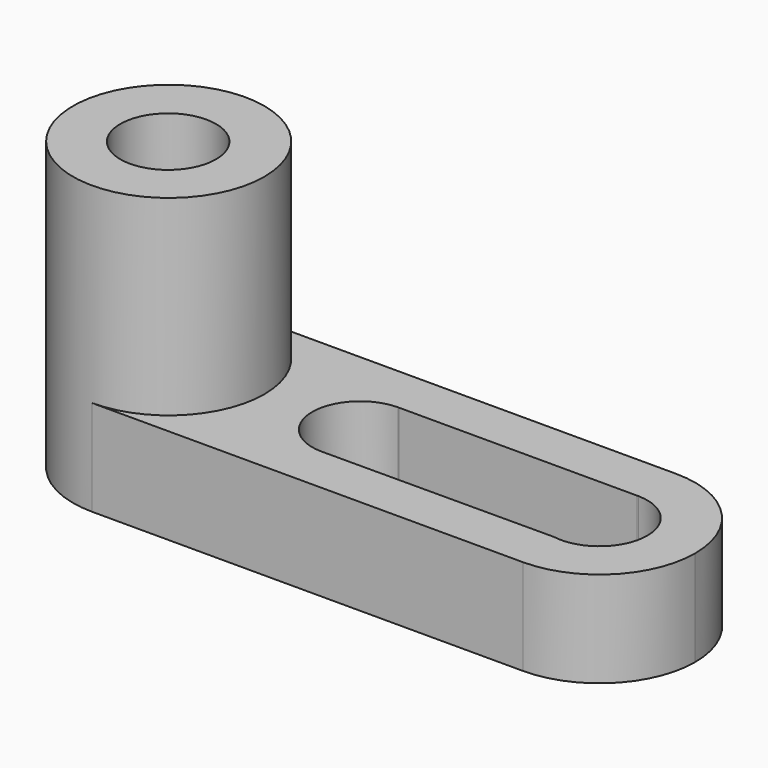
from build123d import *

# Parameters (mm, degrees)
F1_DEPTH  = 25.4
F3_W      = 25.4
F3_H      = 25.4
F4_DEPTH  = 25.401
F5_R      = 12.7
F6_DEPTH  = 38.1
F8_DEPTH  = 12.701
F10_DEPTH = 38.101
F11_R     = 6.35
F12_DEPTH = 38.101
F14_DEPTH = 38.101


with BuildPart() as f1:
    # F0 (on Front) → F1 (new body)
    with BuildSketch(Plane.XZ):
        Polygon((25.4, 38.1), (0, 38.1), (0, 0), (82.55, 0), (82.55, 12.7), (25.4, 12.7), align=None)
    extrude(amount=F1_DEPTH)

    # F3 (on Front) → F4 (cut, through all)
    with BuildSketch(Plane.XZ):
        with Locations((12.7, 25.4)):
            Rectangle(F3_W, F3_H)
    extrude(amount=F4_DEPTH, mode=Mode.SUBTRACT)

    # F5 (on Top) → F6 (join)
    with BuildSketch(Plane.XY):
        with Locations((12.7, -12.7)):
            Circle(F5_R)
    extrude(amount=F6_DEPTH)

    # F8 (cut, through all): faces of the model
    f8_faces = [f1.faces().sort_by_distance(p)[0] for p in [
        (2.8367728246, -2.8367728246, 12.7),
        (2.8367728246, -22.5632271754, 12.7),
    ]]
    extrude(f8_faces, amount=-F8_DEPTH, mode=Mode.SUBTRACT)

    # F9 (on Top) → F10 (cut, through all)
    with BuildSketch(Plane.XY):
        with BuildLine():
            ThreePointArc((70.9260618119, -18.9581619488), (74.7056921497, -16.792035404), (76.2, -12.7))
            ThreePointArc((76.2, -12.7), (74.3718130047, -8.2417820656), (69.9399347557, -6.3506369028))
            Line((69.9399347557, -6.3506369028), (69.7600652443, -6.3506369028))
            ThreePointArc((69.7600652443, -6.3506369028), (63.5180353707, -12.2217490892), (68.8073960441, -18.9638228735))
            Line((68.8073960441, -18.9638228735), (70.9260618119, -18.9581619488))
        make_face()
        with BuildLine():
            Line((69.7600652443, -6.3506369028), (69.9399347557, -6.3506369028))
            ThreePointArc((69.9399347557, -6.3506369028), (69.85, -6.35), (69.7600652443, -6.3506369028))
        make_face()
        with BuildLine():
            ThreePointArc((68.8073960441, -18.9638228735), (69.8669666894, -19.0499773331), (70.9260618119, -18.9581619488))
            Line((70.9260618119, -18.9581619488), (68.8073960441, -18.9638228735))
        make_face()
        with BuildLine():
            ThreePointArc((68.8073960441, -18.9638228735), (63.5180353707, -12.2217490892), (69.7600652443, -6.3506369028))
            Line((69.7600652443, -6.3506369028), (38.1899347557, -6.3506369028))
            ThreePointArc((38.1899347557, -6.3506369028), (42.6218130047, -8.2417820656), (44.45, -12.7))
            ThreePointArc((44.45, -12.7), (42.6764639727, -17.1020992158), (38.3465425178, -19.0452121152))
            Line((38.3465425178, -19.0452121152), (68.8073960441, -18.9638228735))
        make_face()
        with BuildLine():
            Line((38.0100652443, -6.3506369028), (38.1899347557, -6.3506369028))
            ThreePointArc((38.1899347557, -6.3506369028), (38.1, -6.35), (38.0100652443, -6.3506369028))
        make_face()
        with BuildLine():
            ThreePointArc((44.45, -12.7), (42.6218130047, -8.2417820656), (38.1899347557, -6.3506369028))
            Line((38.1899347557, -6.3506369028), (38.0100652443, -6.3506369028))
            ThreePointArc((38.0100652443, -6.3506369028), (31.7502965226, -12.6386342958), (37.8873686745, -19.0464389952))
            Line((37.8873686745, -19.0464389952), (38.3465425178, -19.0452121152))
            ThreePointArc((38.3465425178, -19.0452121152), (42.6764639727, -17.1020992158), (44.45, -12.7))
        make_face()
        with BuildLine():
            ThreePointArc((37.8873686745, -19.0464389952), (38.1169666894, -19.0499773331), (38.3465425178, -19.0452121152))
            Line((38.3465425178, -19.0452121152), (37.8873686745, -19.0464389952))
        make_face()
    extrude(amount=F10_DEPTH, mode=Mode.SUBTRACT)

    # F11 (on Top) → F12 (cut, through all)
    with BuildSketch(Plane.XY):
        with Locations((12.6997202718, -12.7842912701)):
            Circle(F11_R)
    extrude(amount=F12_DEPTH, mode=Mode.SUBTRACT)

    # F13 (on Top) → F14 (cut, through all)
    with BuildSketch(Plane.XY):
        with BuildLine():
            ThreePointArc((69.85, 0), (78.8302561211, -3.7197438789), (82.55, -12.7))
            Line((82.55, -12.7), (82.55, 0))
            Line((82.55, 0), (69.85, 0))
        make_face()
        with BuildLine():
            ThreePointArc((82.55, -12.7), (78.8302561211, -21.6802561211), (69.85, -25.4))
            Line((69.85, -25.4), (82.55, -25.4))
            Line((82.55, -25.4), (82.55, -12.7))
        make_face()
    extrude(amount=F14_DEPTH, mode=Mode.SUBTRACT)


solid = f1.part
